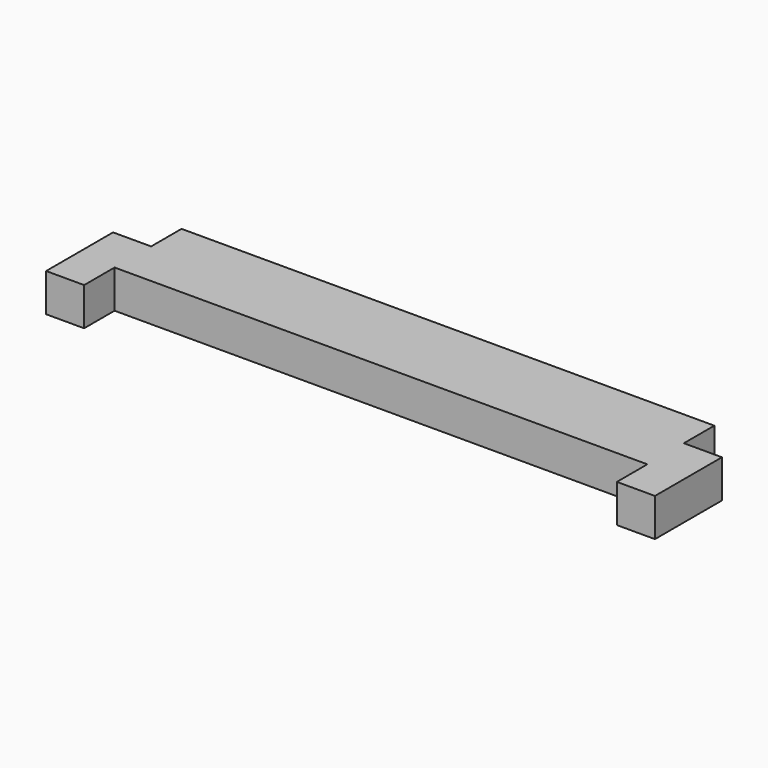
from build123d import *

# Parameters (mm, degrees)
F0_W     = 101.6
F0_H     = 20.32
F1_DEPTH = 6.35
F2_W     = 88.9
F2_H     = 6.35
F2_W_2   = 6.35
F3_DEPTH = 6.351


with BuildPart() as f1:
    # F0 (on Top) → F1 (new body)
    with BuildSketch(Plane.XY):
        Rectangle(F0_W, F0_H)
    extrude(amount=F1_DEPTH)

    # F2 (on face) → F3 (cut, through all)
    with BuildSketch(Plane.XY.offset(6.35)):
        with Locations((0, -6.985)):
            Rectangle(F2_W, F2_H)
        with Locations((-47.625, 6.985)):
            Rectangle(F2_W_2, F2_H)
        with Locations((47.625, 6.985)):
            Rectangle(F2_W_2, F2_H)
    extrude(amount=-F3_DEPTH, mode=Mode.SUBTRACT)


solid = f1.part
